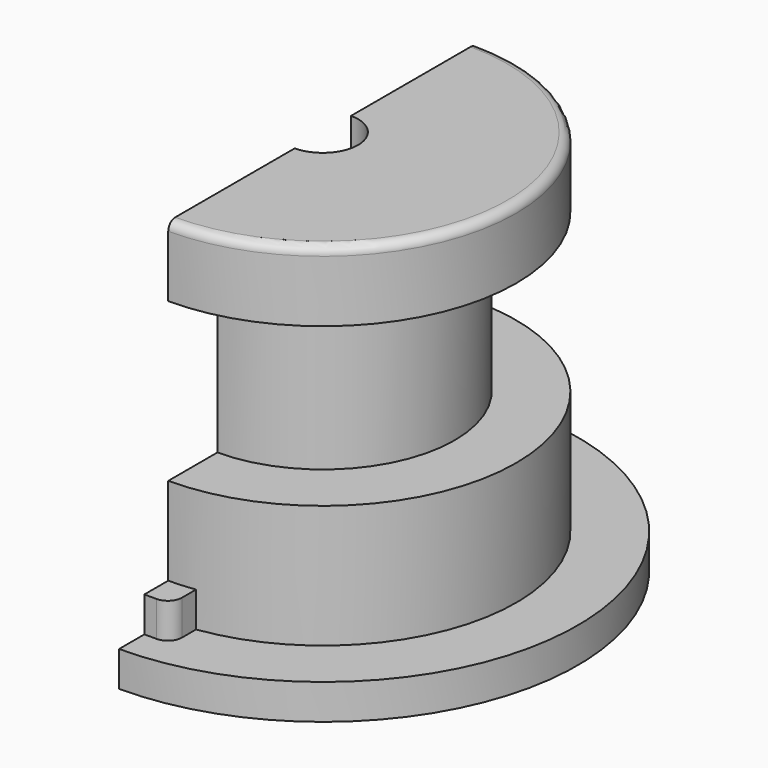
from build123d import *

# Parameters (mm, degrees)
F0_R      = 14.5
F1_DEPTH  = 2
F2_R      = 11
F3_DEPTH  = 20
F4_R      = 2
F5_DEPTH  = 22.001
F6_W      = 3
F6_H      = 3.4
F7_DEPTH  = 2
F8_R      = 0.8
F9_R      = 0.5
F11_W     = 28.85052
F11_H     = 54.144128
F12_DEPTH = 22.001
F14_W     = 3.5
F14_H     = 9


with BuildPart() as f1:
    # F0 (on Top) → F1 (new body)
    with BuildSketch(Plane.XY):
        Circle(F0_R)
    extrude(amount=F1_DEPTH)

    # F2 (on face) → F3 (join)
    with BuildSketch(Plane.XY.offset(2)):
        Circle(F2_R)
    extrude(amount=F3_DEPTH)

    # F4 (on face) → F5 (cut, through all)
    with BuildSketch(Plane(origin=(0, 0, 0), x_dir=(1, 0, 0), z_dir=(0, 0, -1))):
        Circle(F4_R)
    extrude(amount=-F5_DEPTH, mode=Mode.SUBTRACT)

    # F6 (on face) → F7 (join)
    with BuildSketch(Plane.XY.offset(2)):
        with Locations((0, -11)):
            Rectangle(F6_W, F6_H)
    extrude(amount=F7_DEPTH)

    # F8
    f8_edges = [f1.edges().sort_by_distance(p)[0] for p in [
        (-1.5, -12.7, 3),
        (1.5, -12.7, 3),
    ]]
    fillet(f8_edges, radius=F8_R)

    # F9
    f9_edges = [f1.edges().sort_by_distance(p)[0] for p in [
        (-11, 0, 22),
    ]]
    fillet(f9_edges, radius=F9_R)

    # F11 (on Top) → F12 (cut, through all)
    with BuildSketch(Plane.XY):
        with Locations((-14.42526, 2.568883)):
            Rectangle(F11_W, F11_H)
    extrude(amount=F12_DEPTH, mode=Mode.SUBTRACT)

    # F14 (on Front) → F15 (revolve, cut)
    with BuildSketch(Plane.XZ):
        with Locations((9.25, 13.5)):
            Rectangle(F14_W, F14_H)
    revolve(axis=Axis((0, 0, 13.307823), (0, 0, 1)), mode=Mode.SUBTRACT)


solid = f1.part
